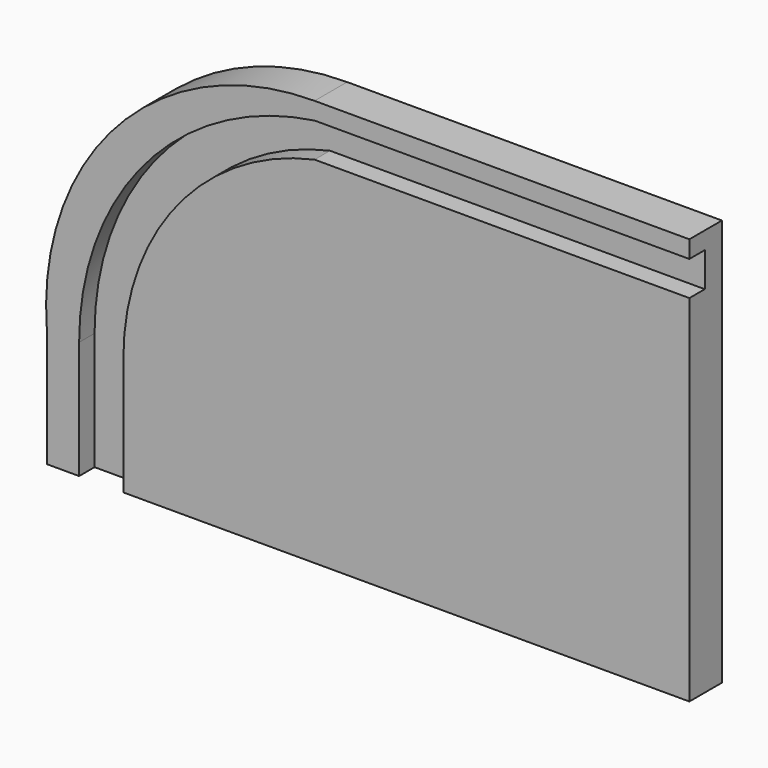
from build123d import *

# Parameters (mm, degrees)
F1_DEPTH = 19
F3_DEPTH = 9


with BuildPart() as f1:
    # F0 (on Front) → F1 (new body)
    with BuildSketch(Plane.XZ):
        with BuildLine():
            Line((215.803112, -98.339818), (215.803112, 91.660182))
            Line((215.803112, 91.660182), (40.803112, 91.660182))
            ThreePointArc((40.803112, 91.660182), (-51.188735, 51.467448), (-84.196888, -43.339818))
            Line((-84.196888, -43.339818), (-84.196888, -98.339818))
            Line((-84.196888, -98.339818), (215.803112, -98.339818))
        make_face()
    extrude(amount=F1_DEPTH)

    # F2 (on face) → F3 (cut)
    with BuildSketch(Plane.XZ.offset(19)):
        with BuildLine():
            Line((-48.476428, -98.339818), (-48.476428, -43.339818))
            ThreePointArc((-48.476428, -43.339818), (-23.380529, 27.820504), (40.803112, 67.494877))
            Line((40.803112, 67.494877), (215.803112, 67.494877))
            Line((215.803112, 67.494877), (215.803112, 83.558917))
            Line((215.803112, 83.558917), (40.803112, 83.558917))
            ThreePointArc((40.803112, 83.558917), (-37.824855, 40.607519), (-69.130197, -43.339818))
            Line((-69.130197, -43.339818), (-69.130197, -98.339818))
            Line((-69.130197, -98.339818), (-48.476428, -98.339818))
        make_face()
    extrude(amount=-F3_DEPTH, mode=Mode.SUBTRACT)


solid = f1.part
